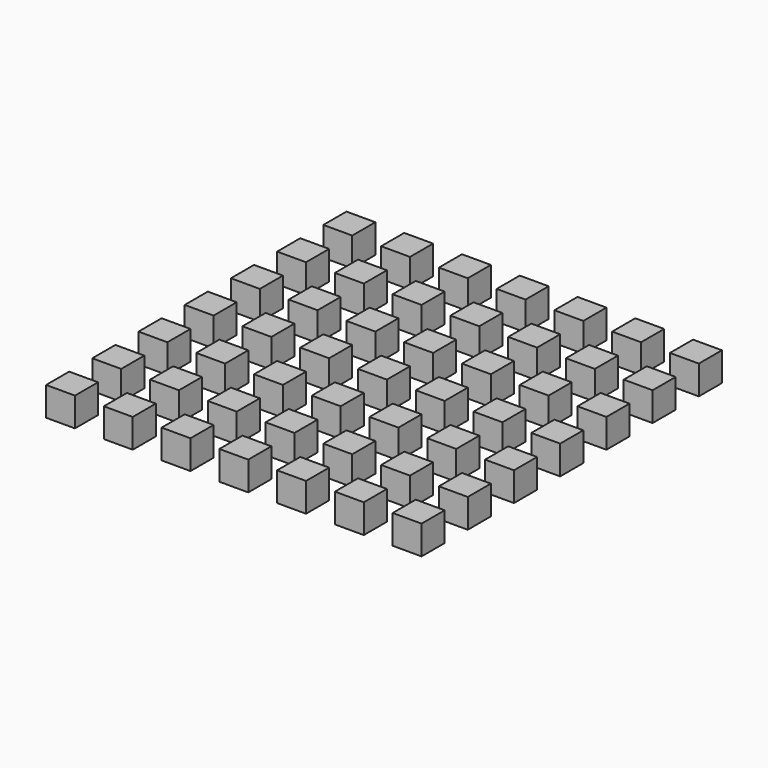
from build123d import *

# Parameters (mm, degrees)
F0_W     = 10
F0_H     = 10
F1_DEPTH = 10


with BuildPart() as f1:
    # F0 (on Top) → F1 (new body)
    with BuildSketch(Plane.XY):
        with Locations((-37.959478, -1.122331)):
            Rectangle(F0_W, F0_H)
        with Locations((-37.959478, 38.877669)):
            Rectangle(F0_W, F0_H)
        with Locations((62.040522, -61.122331)):
            Rectangle(F0_W, F0_H)
        with Locations((22.040522, -61.122331)):
            Rectangle(F0_W, F0_H)
        with Locations((62.040522, 58.877669)):
            Rectangle(F0_W, F0_H)
        with Locations((-17.959478, 58.877669)):
            Rectangle(F0_W, F0_H)
        with Locations((22.040522, 18.877669)):
            Rectangle(F0_W, F0_H)
        with Locations((22.040522, 58.877669)):
            Rectangle(F0_W, F0_H)
        with Locations((-57.959478, -21.122331)):
            Rectangle(F0_W, F0_H)
        with Locations((42.040522, -1.122331)):
            Rectangle(F0_W, F0_H)
        with Locations((22.040522, -1.122331)):
            Rectangle(F0_W, F0_H)
        with Locations((-17.959478, -61.122331)):
            Rectangle(F0_W, F0_H)
        with Locations((62.040522, -21.122331)):
            Rectangle(F0_W, F0_H)
        with Locations((2.040522, -41.122331)):
            Rectangle(F0_W, F0_H)
        with Locations((-57.959478, 58.877669)):
            Rectangle(F0_W, F0_H)
        with Locations((-37.959478, 58.877669)):
            Rectangle(F0_W, F0_H)
        with Locations((2.040522, 38.877669)):
            Rectangle(F0_W, F0_H)
        with Locations((2.040522, 58.877669)):
            Rectangle(F0_W, F0_H)
        with Locations((-37.959478, -61.122331)):
            Rectangle(F0_W, F0_H)
        with Locations((62.040522, 18.877669)):
            Rectangle(F0_W, F0_H)
        with Locations((62.040522, 38.877669)):
            Rectangle(F0_W, F0_H)
        with Locations((-57.959478, -61.122331)):
            Rectangle(F0_W, F0_H)
        with Locations((-57.959478, -1.122331)):
            Rectangle(F0_W, F0_H)
        with Locations((42.040522, 58.877669)):
            Rectangle(F0_W, F0_H)
        with Locations((42.040522, 38.877669)):
            Rectangle(F0_W, F0_H)
        with Locations((22.040522, -41.122331)):
            Rectangle(F0_W, F0_H)
        with Locations((62.040522, -41.122331)):
            Rectangle(F0_W, F0_H)
        with Locations((-17.959478, -1.122331)):
            Rectangle(F0_W, F0_H)
        with Locations((42.040522, -21.122331)):
            Rectangle(F0_W, F0_H)
        with Locations((2.040522, 18.877669)):
            Rectangle(F0_W, F0_H)
        with Locations((-57.959478, -41.122331)):
            Rectangle(F0_W, F0_H)
        with Locations((42.040522, 18.877669)):
            Rectangle(F0_W, F0_H)
        with Locations((-37.959478, -21.122331)):
            Rectangle(F0_W, F0_H)
        with Locations((-17.959478, 18.877669)):
            Rectangle(F0_W, F0_H)
        with Locations((-17.959478, -21.122331)):
            Rectangle(F0_W, F0_H)
        with Locations((-37.959478, 18.877669)):
            Rectangle(F0_W, F0_H)
        with Locations((-17.959478, -41.122331)):
            Rectangle(F0_W, F0_H)
        with Locations((22.040522, 38.877669)):
            Rectangle(F0_W, F0_H)
        with Locations((2.040522, -61.122331)):
            Rectangle(F0_W, F0_H)
        with Locations((2.040522, -21.122331)):
            Rectangle(F0_W, F0_H)
        with Locations((-37.959478, -41.122331)):
            Rectangle(F0_W, F0_H)
        with Locations((-17.959478, 38.877669)):
            Rectangle(F0_W, F0_H)
        with Locations((22.040522, -21.122331)):
            Rectangle(F0_W, F0_H)
        with Locations((42.040522, -61.122331)):
            Rectangle(F0_W, F0_H)
        with Locations((-57.959478, 18.877669)):
            Rectangle(F0_W, F0_H)
        with Locations((62.040522, -1.122331)):
            Rectangle(F0_W, F0_H)
        with Locations((42.040522, -41.122331)):
            Rectangle(F0_W, F0_H)
        with Locations((2.040522, -1.122331)):
            Rectangle(F0_W, F0_H)
        with Locations((-57.959478, 38.877669)):
            Rectangle(F0_W, F0_H)
    extrude(amount=F1_DEPTH)


solid = f1.part
